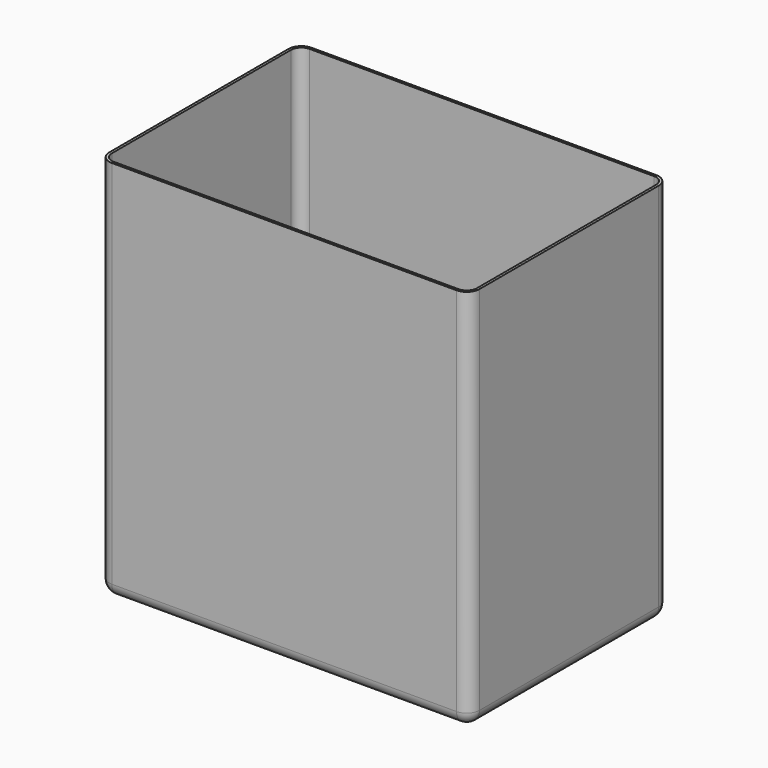
from build123d import *

# Parameters (mm, degrees)
F0_W     = 144.77
F0_H     = 97.62
F1_DEPTH = 150
F2_R     = 5
F3_T     = -1


with BuildPart() as f1:
    # F0 (on Top) → F1 (new body)
    with BuildSketch(Plane.XY):
        Rectangle(F0_W, F0_H)
    extrude(amount=F1_DEPTH)

    # F2
    f2_edges = [f1.edges().sort_by_distance(p)[0] for p in [
        (-72.385, 0, 0),
        (0, -48.81, 0),
        (72.385, 0, 0),
        (0, 48.81, 0),
        (-72.385, -48.81, 75),
        (-72.385, 48.81, 75),
        (72.385, -48.81, 75),
        (72.385, 48.81, 75),
    ]]
    fillet(f2_edges, radius=F2_R)

    # F3
    f3_openings = [f1.faces().sort_by_distance(p)[0] for p in [
        (0, 0, 150),
    ]]
    offset(amount=F3_T, openings=f3_openings)


solid = f1.part
